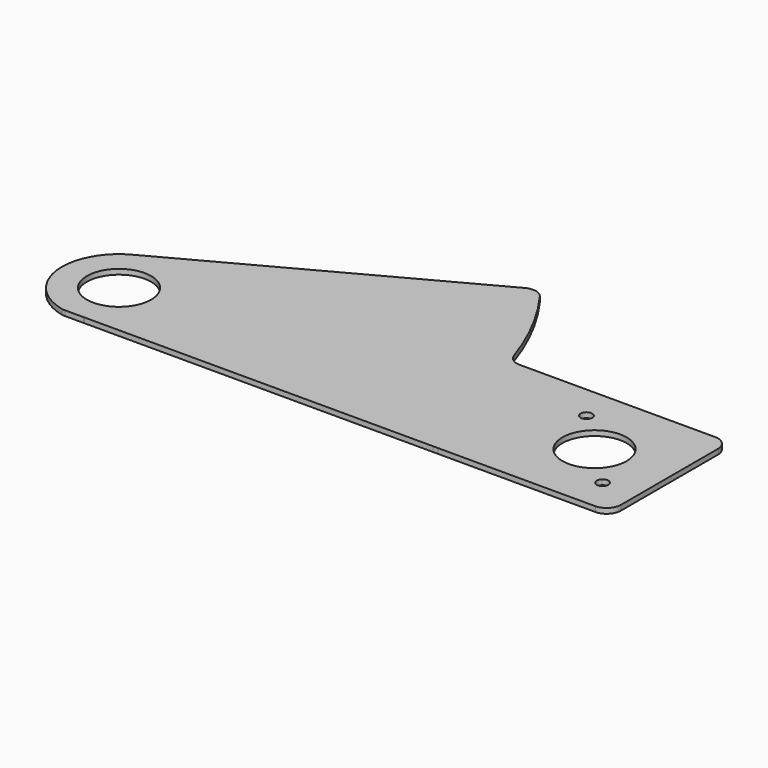
from build123d import *

# Parameters (mm, degrees)
F0_R     = 14.3002
F1_DEPTH = 2.286


with BuildPart() as f1:
    # F0 (on Top) → F1 (new body)
    with BuildSketch(Plane.XY):
        with BuildLine():
            ThreePointArc((4.5782528326, -24.9200088385), (5.0918980549, -24.8683144387), (5.5996466991, -24.775067242))
            ThreePointArc((5.5996466991, -24.775067242), (23.7919995843, 8.8938605668), (-12.0251535791, 22.3731017384))
            ThreePointArc((-12.0251535791, 22.3731017384), (-25.1673569483, -3.4298898286), (-5.5996466991, -24.775067242))
            ThreePointArc((-5.5996466991, -24.775067242), (-4.9040363637, -24.8921212674), (-4.1997350243, -24.9313004315))
            Line((-4.1997350243, -24.9313004315), (4.1997350243, -24.9313004315))
            ThreePointArc((4.1997350243, -24.9313004315), (4.3890781198, -24.9284769055), (4.5782528326, -24.9200088385))
        make_face()
        Circle(F0_R, mode=Mode.SUBTRACT)
        with BuildLine():
            ThreePointArc((-12.0251535791, 22.3731017384), (23.7919995843, 8.8938605668), (5.5996466991, -24.775067242))
            ThreePointArc((5.5996466991, -24.775067242), (5.0918980549, -24.8683144387), (4.5782528326, -24.9200088385))
            Line((4.5782528326, -24.9200088385), (159.6560833668, -24.9200088385))
            Line((159.6560833668, -24.9200088385), (161.9462817907, -24.9313004315))
            Line((161.9462817907, -24.9313004315), (232.02392, -24.9313004315))
            ThreePointArc((232.02392, -24.9313004315), (236.5140480605, -23.071428492), (238.37392, -18.5813004315))
            Line((238.37392, -18.5813004315), (238.37392, 35.4190995685))
            ThreePointArc((238.37392, 35.4190995685), (236.5140480605, 39.909227629), (232.02392, 41.7690995685))
            Line((232.02392, 41.7690995685), (149.8630139368, 41.7690995685))
            Line((149.8630139368, 41.7690995685), (145.0510800284, 41.7690995685))
            ThreePointArc((145.0510800284, 41.7690995685), (141.3344730377, 42.9703781276), (139.0240645636, 46.119703513))
            ThreePointArc((139.0240645636, 46.119703513), (130.2628675114, 66.9798695701), (118.3936255177, 86.2419098622))
            ThreePointArc((118.3936255177, 86.2419098622), (114.671704562, 88.6944378072), (110.2546990133, 88.0963985904))
            Line((110.2546990133, 88.0963985904), (-12.0251535791, 22.3731017384))
        make_face()
        with BuildLine():
            ThreePointArc((225.563919742, -9.5416126735), (221.997028575, -11.924933155), (221.1601177174, -7.7174981489))
            ThreePointArc((221.1601177174, -7.7174981489), (223.9714359089, -7.1582921919), (225.563919742, -9.5416126735))
        make_face(mode=Mode.SUBTRACT)
        with BuildLine():
            ThreePointArc((194.9119516077, 18.5306679608), (210.4961696195, 21.6305616593), (219.32392, 8.4188995685))
            ThreePointArc((219.32392, 8.4188995685), (218.2353820908, 2.946449949), (215.1354883923, -1.6928688238))
            ThreePointArc((215.1354883923, -1.6928688238), (194.9119516077, -1.6928688238), (194.9119516077, 18.5306679608))
        make_face(mode=Mode.SUBTRACT)
        with BuildLine():
            ThreePointArc((189.642895258, 26.3794118105), (189.4465282396, 25.3922081436), (188.8873222826, 24.5552972859))
            ThreePointArc((188.8873222826, 24.5552972859), (184.6798872765, 27.3666154774), (189.642895258, 26.3794118105))
        make_face(mode=Mode.SUBTRACT)
    extrude(amount=F1_DEPTH)


solid = f1.part
